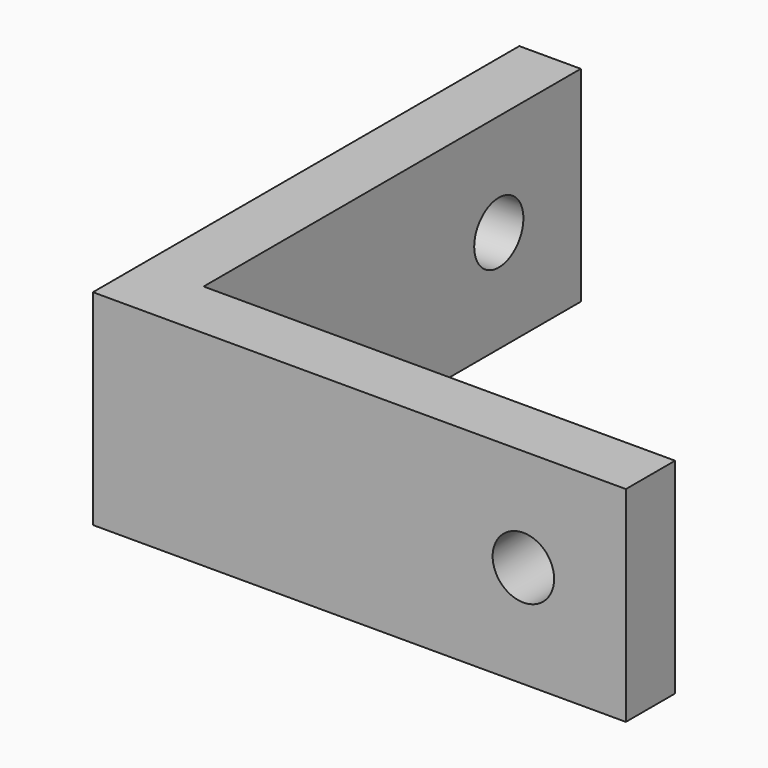
from build123d import *

# Parameters (mm, degrees)
PAD_DEPTH       = 10
SKETCH001_R     = 1.5
POCKET_DEPTH    = 5
SKETCH002_R     = 1.5
POCKET001_DEPTH = 5


with BuildPart() as part:
    # Sketch → Pad (new body)
    with BuildSketch(Plane.XY):
        Polygon((0, 0), (0, 26), (3, 26), (3, 3), (26, 3), (26, 0), align=None)
    extrude(amount=PAD_DEPTH)

    # Sketch001 (on Face6 of Pad) → Pocket (cut)
    with BuildSketch(Plane.XZ):
        with Locations((21, 5)):
            Circle(SKETCH001_R)
    extrude(amount=-POCKET_DEPTH, mode=Mode.SUBTRACT)

    # Sketch002 (on Face1 of Pocket) → Pocket001 (cut)
    with BuildSketch(Plane(origin=(0, 0, 0), x_dir=(0, -1, 0), z_dir=(-1, 0, 0))):
        with Locations((-21, 5)):
            Circle(SKETCH002_R)
    extrude(amount=-POCKET001_DEPTH, mode=Mode.SUBTRACT)


solid = part.part
